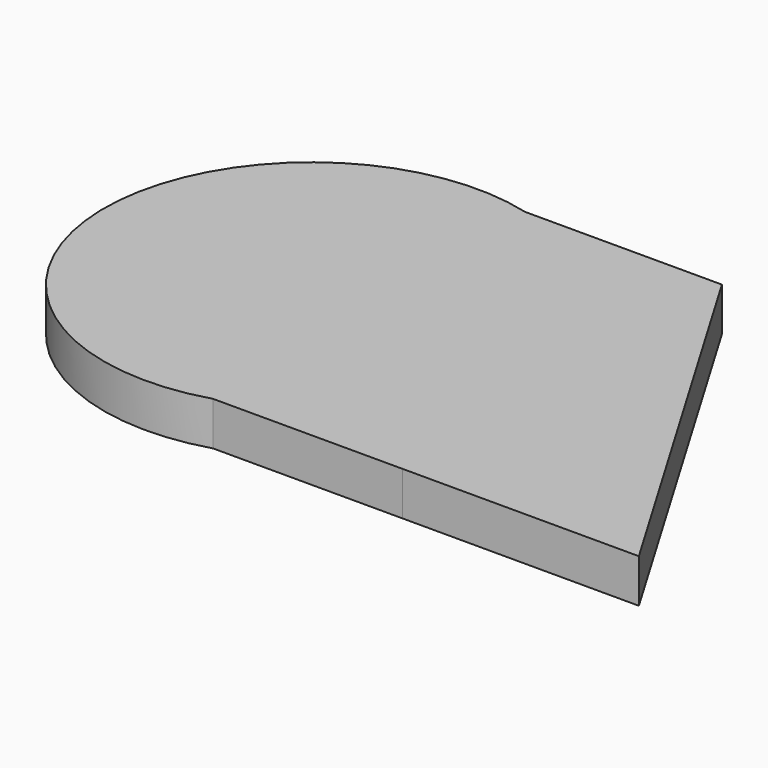
from build123d import *

# Parameters (mm, degrees)
F1_DEPTH = 10


with BuildPart() as f1:
    # F0 (on Top) → F1 (new body)
    with BuildSketch(Plane.XY):
        with BuildLine():
            Line((17.678401, 47.701199), (-27.432, 47.701199))
            ThreePointArc((-27.432, 47.701199), (-87.102124, 0.877894), (-25.764565, -43.738801))
            Line((-25.764565, -43.738801), (17.678401, -43.738801))
            Line((17.678401, -43.738801), (71.814515, -43.757468))
            Line((71.814515, -43.757468), (17.678401, 47.701199))
        make_face()
    extrude(amount=F1_DEPTH)


solid = f1.part
